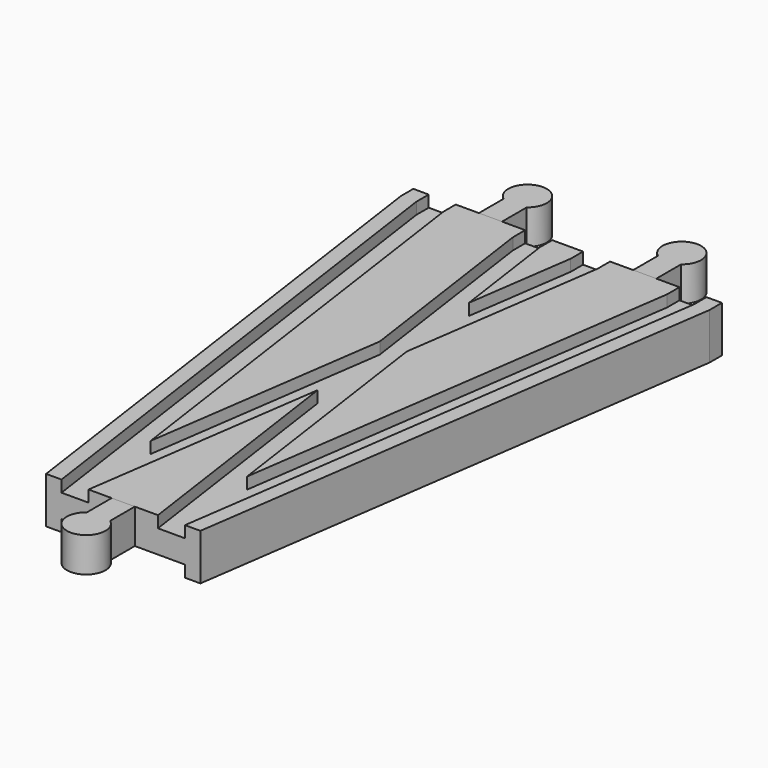
from build123d import *

# Parameters (mm, degrees)
SKETCH004_W       = 32
SKETCH004_H       = 3
SKETCH005_W       = 7
SKETCH005_H       = 3
SKETCH006_W       = 7
SKETCH006_H       = 3
PAD_DEPTH         = 6
PAD_DEPTH_BACK    = 3
PAD001_DEPTH      = 6
PAD001_DEPTH_BACK = 3
PAD002_DEPTH      = 6
PAD002_DEPTH_BACK = 3


with BuildPart() as body:
    # AdditivePipe: sweep along a path in Sketch
    with BuildLine(Plane.XY) as additivepipe_path:
        Line((-20, 144), (-20, 140))
        Line((-20, 140), (0, 0))
    # Sketch002 → AdditivePipe (sweep)
    with BuildSketch(Plane.XZ):
        Polygon((-20, 6), (-20, -6), (-16, -6), (-16, -3), (-9, -3), (9, -3), (16, -3), (16, -6), (20, -6), (20, 6), (16, 6), (16, 3), (9, 3), (9, 6), (-9, 6), (-9, 3), (-16, 3), (-16, 6), align=None)
    sweep(path=additivepipe_path.line)

    # AdditivePipe001: sweep along a path in Sketch001
    with BuildLine(Plane.XY) as additivepipe001_path:
        Line((20, 144), (20, 140))
        Line((20, 140), (0, 0))
    # Sketch002 → AdditivePipe001 (sweep)
    with BuildSketch(Plane.XZ):
        Polygon((-20, 6), (-20, -6), (-16, -6), (-16, -3), (-9, -3), (9, -3), (16, -3), (16, -6), (20, -6), (20, 6), (16, 6), (16, 3), (9, 3), (9, 6), (-9, 6), (-9, 3), (-16, 3), (-16, 6), align=None)
    sweep(path=additivepipe001_path.line)

    # SubtractivePipe: sweep along a path in Sketch
    with BuildLine(Plane.XY) as subtractivepipe_path:
        Line((-20, 144), (-20, 140))
        Line((-20, 140), (0, 0))
    # Sketch004 → SubtractivePipe (sweep, cut)
    with BuildSketch(Plane.XZ):
        with Locations((0, -4.5)):
            Rectangle(SKETCH004_W, SKETCH004_H)
    sweep(path=subtractivepipe_path.line, mode=Mode.SUBTRACT)

    # SubtractivePipe001: sweep along a path in Sketch001
    with BuildLine(Plane.XY) as subtractivepipe001_path:
        Line((20, 144), (20, 140))
        Line((20, 140), (0, 0))
    # Sketch004 → SubtractivePipe001 (sweep, cut)
    with BuildSketch(Plane.XZ):
        with Locations((0, -4.5)):
            Rectangle(SKETCH004_W, SKETCH004_H)
    sweep(path=subtractivepipe001_path.line, mode=Mode.SUBTRACT)

    # SubtractivePipe002: sweep along a path in Sketch
    with BuildLine(Plane.XY) as subtractivepipe002_path:
        Line((-20, 144), (-20, 140))
        Line((-20, 140), (0, 0))
    # Sketch005 → SubtractivePipe002 (sweep, cut)
    with BuildSketch(Plane.XZ):
        with Locations((-12.5, 4.5)):
            Rectangle(SKETCH005_W, SKETCH005_H)
    sweep(path=subtractivepipe002_path.line, mode=Mode.SUBTRACT)

    # SubtractivePipe003: sweep along a path in Sketch001
    with BuildLine(Plane.XY) as subtractivepipe003_path:
        Line((20, 144), (20, 140))
        Line((20, 140), (0, 0))
    # Sketch005 → SubtractivePipe003 (sweep, cut)
    with BuildSketch(Plane.XZ):
        with Locations((-12.5, 4.5)):
            Rectangle(SKETCH005_W, SKETCH005_H)
    sweep(path=subtractivepipe003_path.line, mode=Mode.SUBTRACT)

    # SubtractivePipe004: sweep along a path in Sketch
    with BuildLine(Plane.XY) as subtractivepipe004_path:
        Line((-20, 144), (-20, 140))
        Line((-20, 140), (0, 0))
    # Sketch006 → SubtractivePipe004 (sweep, cut)
    with BuildSketch(Plane.XZ):
        with Locations((12.5, 4.5)):
            Rectangle(SKETCH006_W, SKETCH006_H)
    sweep(path=subtractivepipe004_path.line, mode=Mode.SUBTRACT)

    # SubtractivePipe005: sweep along a path in Sketch001
    with BuildLine(Plane.XY) as subtractivepipe005_path:
        Line((20, 144), (20, 140))
        Line((20, 140), (0, 0))
    # Sketch006 → SubtractivePipe005 (sweep, cut)
    with BuildSketch(Plane.XZ):
        with Locations((12.5, 4.5)):
            Rectangle(SKETCH006_W, SKETCH006_H)
    sweep(path=subtractivepipe005_path.line, mode=Mode.SUBTRACT)


with BuildPart() as body001:
    # Sketch009 → Pad (new body, two sides)
    with BuildSketch(Plane.XY) as pad_sk:
        with BuildLine():
            Line((-3, 0), (3, 0))
            Line((3, 0), (3, -8))
            ThreePointArc((-3, -8), (0, -17), (3, -8))
            Line((-3, 0), (-3, -8))
        make_face()
    extrude(amount=PAD_DEPTH)
    extrude(pad_sk.sketch, amount=-PAD_DEPTH_BACK)


with BuildPart() as male2:
    # Sketch010 → Pad001 (new body, two sides)
    with BuildSketch(Plane.XY) as pad001_sk:
        with BuildLine():
            Line((-23, 144), (-17, 144))
            Line((-17, 144), (-17, 152))
            ThreePointArc((-17, 152), (-20, 161), (-23, 152))
            Line((-23, 144), (-23, 152))
        make_face()
    extrude(amount=PAD001_DEPTH)
    extrude(pad001_sk.sketch, amount=-PAD001_DEPTH_BACK)


with BuildPart() as male3:
    # Sketch011 → Pad002 (new body, two sides)
    with BuildSketch(Plane.XY) as pad002_sk:
        with BuildLine():
            Line((17, 144), (23, 144))
            Line((23, 144), (23, 152))
            ThreePointArc((23, 152), (20, 161), (17, 152))
            Line((17, 144), (17, 152))
        make_face()
    extrude(amount=PAD002_DEPTH)
    extrude(pad002_sk.sketch, amount=-PAD002_DEPTH_BACK)


solid = Compound([body.part, body001.part, male2.part, male3.part])
